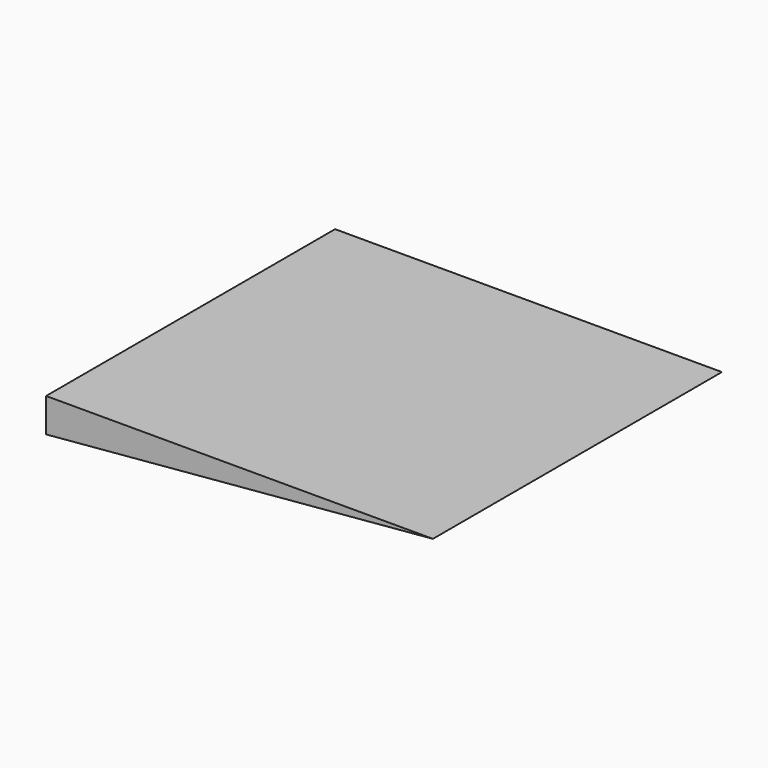
from build123d import *

# Parameters (mm, degrees)
PAD_DEPTH = 10


with BuildPart() as part:
    # Sketch → Pad (new body, symmetric)
    with BuildSketch(Plane.XZ):
        Polygon((10.709093, 0), (-10.709093, 0), (-10.709093, -1.873848), align=None)
    extrude(amount=PAD_DEPTH, both=True)


solid = part.part
